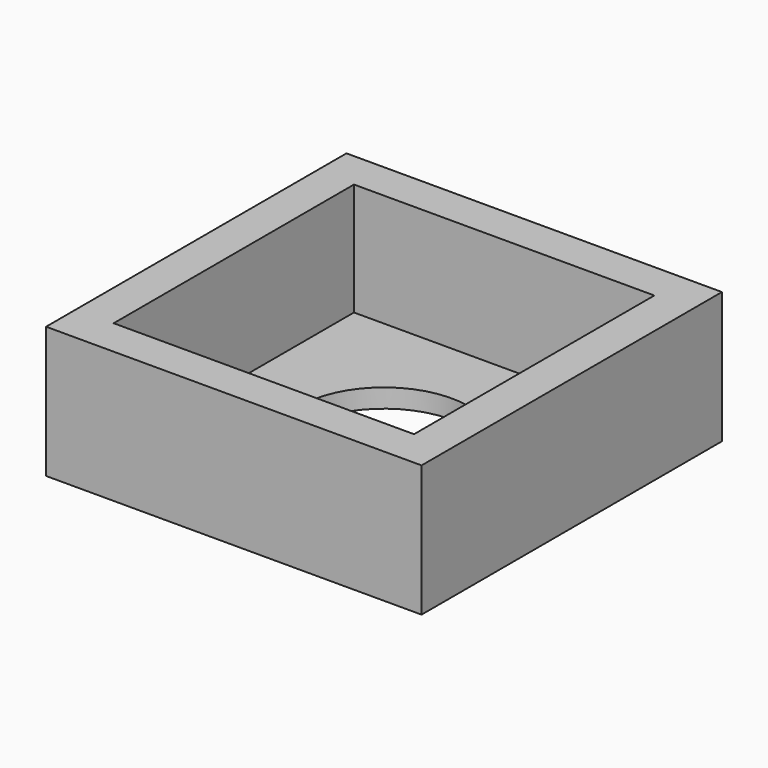
from build123d import *

# Parameters (mm, degrees)
SKETCH_W      = 20
SKETCH_H      = 20
PAD_DEPTH     = 1
SKETCH001_R   = 4.5
POCKET_DEPTH  = 2
SKETCH002_W   = 20
SKETCH002_H   = 20
SKETCH002_W_2 = 16
SKETCH002_H_2 = 16
PAD001_DEPTH  = 6


with BuildPart() as part:
    # Sketch → Pad (new body)
    with BuildSketch(Plane.XY):
        with Locations((10, 10)):
            Rectangle(SKETCH_W, SKETCH_H)
    extrude(amount=PAD_DEPTH)

    # Sketch001 → Pocket (cut)
    with BuildSketch(Plane.XY.offset(1)):
        with Locations((10, 10)):
            Circle(SKETCH001_R)
    extrude(amount=-POCKET_DEPTH, mode=Mode.SUBTRACT)

    # Sketch002 → Pad001 (new body)
    with BuildSketch(Plane.XY.offset(1)):
        with Locations((10, 10)):
            Rectangle(SKETCH002_W, SKETCH002_H)
        with Locations((10, 10)):
            Rectangle(SKETCH002_W_2, SKETCH002_H_2, mode=Mode.SUBTRACT)
    extrude(amount=PAD001_DEPTH)


solid = part.part
